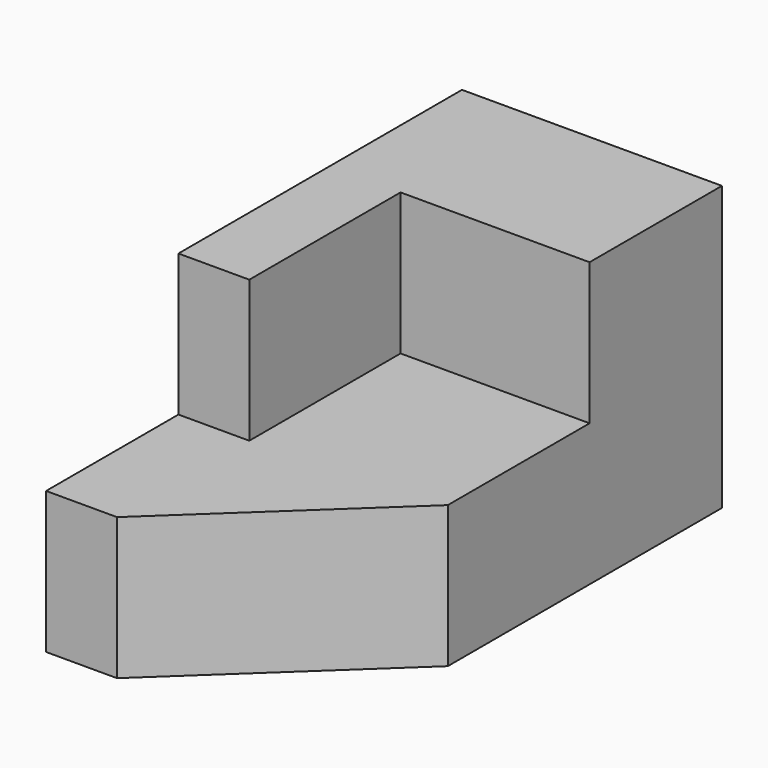
from build123d import *

# Parameters (mm, degrees)
F0_W     = 1778
F0_H     = 1524
F2_DEPTH = 1397
F1_W     = 889
F1_H     = 762
F3_DEPTH = 1755.14
F4_W     = 1397
F4_H     = 762
F5_DEPTH = 1016
F7_DEPTH = 1226.82
F8_W     = 381
F8_H     = 762
F9_DEPTH = 1016


with BuildPart() as f2:
    # F0 (on Right) → F2 (new body)
    with BuildSketch(Plane.YZ):
        with Locations((889, -762)):
            Rectangle(F0_W, F0_H)
    extrude(amount=-F2_DEPTH)

    # F1 (on face) → F3 (cut)
    with BuildSketch(Plane.YZ):
        with Locations((444.5, -381)):
            Rectangle(F1_W, F1_H)
    extrude(amount=-F3_DEPTH, mode=Mode.SUBTRACT)

    # F4 (on face) → F5 (join)
    with BuildSketch(Plane.XZ):
        with Locations((-698.5, -1143)):
            Rectangle(F4_W, F4_H)
    extrude(amount=F5_DEPTH)

    # F6 (on face) → F7 (cut)
    with BuildSketch(Plane.XY.offset(-762)):
        Polygon((0, -1016), (0, -63.5), (-1015.920877, -1016), align=None)
    extrude(amount=-F7_DEPTH, mode=Mode.SUBTRACT)

    # F8 (on face) → F9 (join)
    with BuildSketch(Plane.XZ.offset(-889)):
        with Locations((-1206.5, -381)):
            Rectangle(F8_W, F8_H)
    extrude(amount=F9_DEPTH)


solid = f2.part
